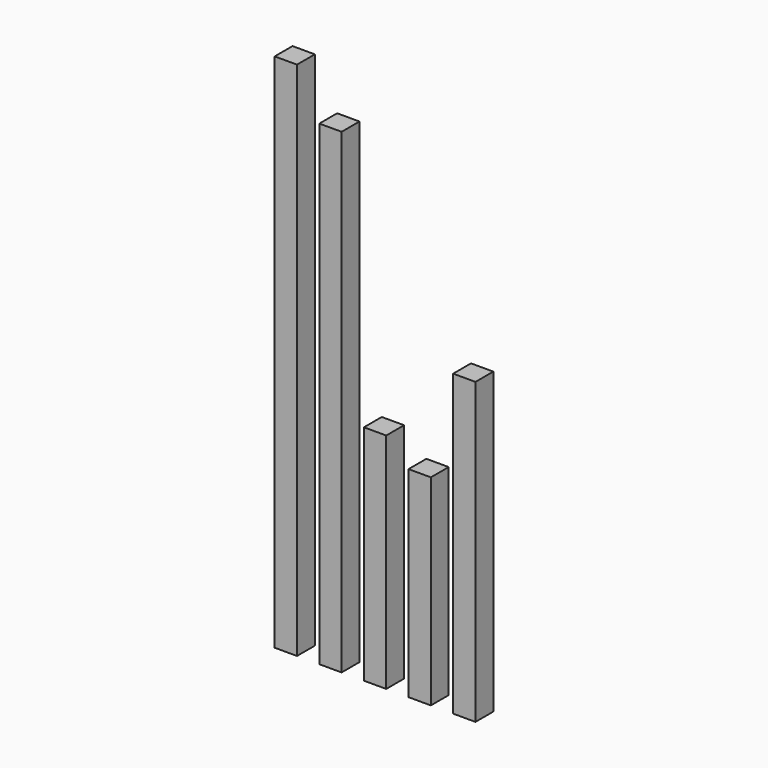
from build123d import *

# Parameters (mm, degrees)
F0_W     = 30
F0_H     = 700
F0_H_2   = 640
F0_H_3   = 300
F0_H_4   = 270
F0_H_5   = 402.5
F1_DEPTH = 30


with BuildPart() as f1:
    # F0 (on Front) → F1 (new body)
    with BuildSketch(Plane.XZ):
        with Locations((-45, 350)):
            Rectangle(F0_W, F0_H)
        with Locations((15, 320)):
            Rectangle(F0_W, F0_H_2)
        with Locations((75, 150)):
            Rectangle(F0_W, F0_H_3)
        with Locations((135, 135)):
            Rectangle(F0_W, F0_H_4)
        with Locations((195, 201.25)):
            Rectangle(F0_W, F0_H_5)
    extrude(amount=F1_DEPTH)


solid = f1.part
